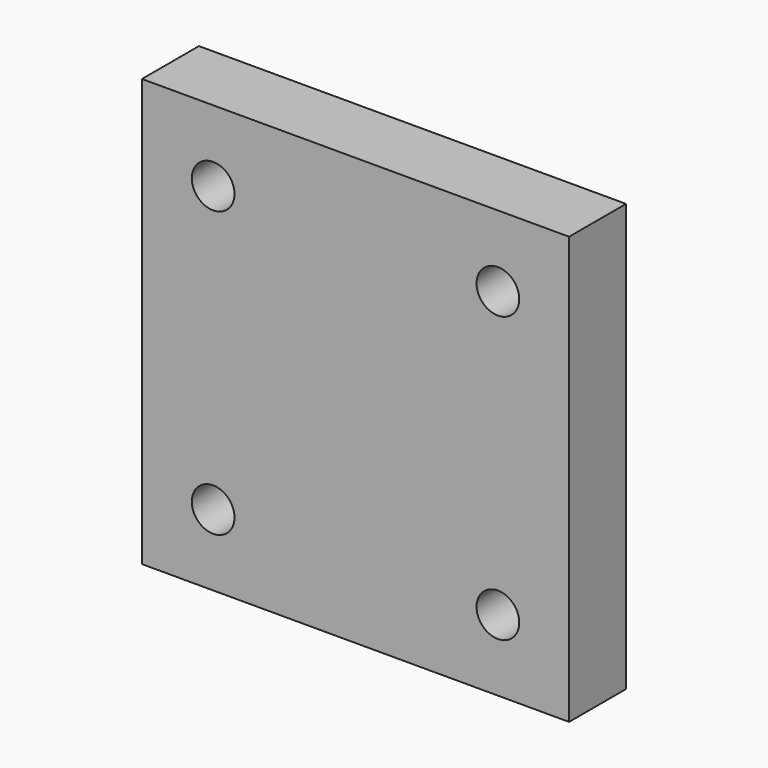
from build123d import *

# Parameters (mm, degrees)
F0_W     = 150
F0_H     = 150
F1_DEPTH = 25


with BuildPart() as f1:
    # F0 (on Front) → F1 (new body)
    with BuildSketch(Plane.XZ):
        Rectangle(F0_W, F0_H)
        with BuildLine():
            ThreePointArc((-50, 42.5), (-55.3033008589, 55.3033008589), (-42.5, 50))
            Line((-42.5, 50), (42.5, 50))
            ThreePointArc((42.5, 50), (50, 57.5), (57.5, 50))
            ThreePointArc((57.5, 50), (55.3033008589, 44.6966991411), (50, 42.5))
            Line((50, 42.5), (50, -42.5))
            ThreePointArc((50, -42.5), (55.3033008589, -44.6966991411), (57.5, -50))
            ThreePointArc((57.5, -50), (50, -57.5), (42.5, -50))
            Line((42.5, -50), (-42.5, -50))
            ThreePointArc((-42.5, -50), (-55.3033008589, -55.3033008589), (-50, -42.5))
            Line((-50, -42.5), (-50, 42.5))
        make_face(mode=Mode.SUBTRACT)
        with BuildLine():
            Line((42.5, 50), (-42.5, 50))
            ThreePointArc((-42.5, 50), (-44.6966991411, 44.6966991411), (-50, 42.5))
            Line((-50, 42.5), (-50, -42.5))
            ThreePointArc((-50, -42.5), (-44.6966991411, -44.6966991411), (-42.5, -50))
            Line((-42.5, -50), (42.5, -50))
            ThreePointArc((42.5, -50), (44.6966991411, -44.6966991411), (50, -42.5))
            Line((50, -42.5), (50, 42.5))
            ThreePointArc((50, 42.5), (44.6966991411, 44.6966991411), (42.5, 50))
        make_face()
    extrude(amount=F1_DEPTH)


solid = f1.part
